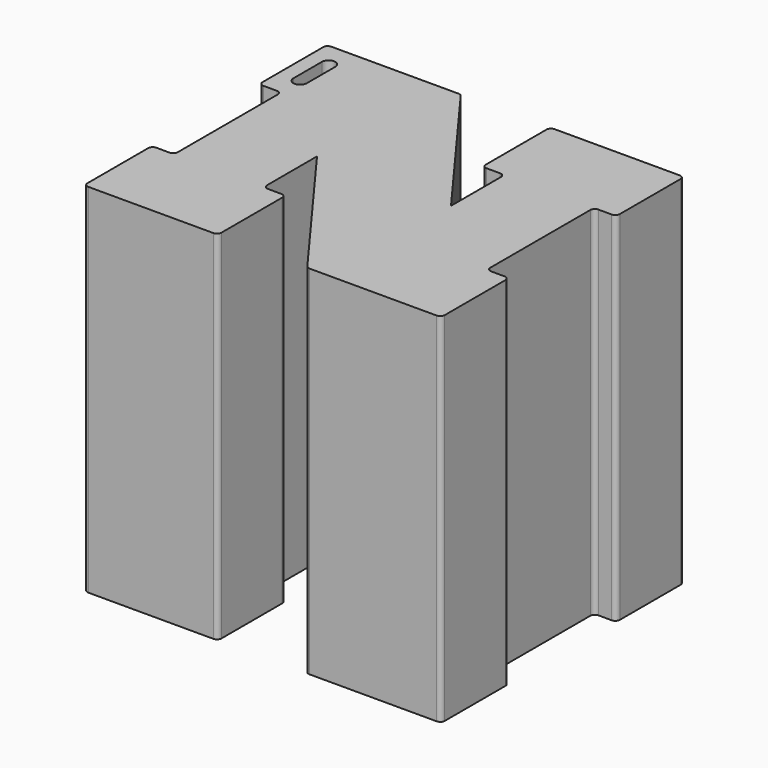
from build123d import *

# Parameters (mm, degrees)
F1_DEPTH = 20
F3_DEPTH = 25
F4_R     = 0.25


with BuildPart() as f1:
    # F0 (on Top) → F1 (new body)
    with BuildSketch(Plane.XY):
        Polygon((-10, 8.5), (-10, 3.75), (-8.75, 3.75), (-8.75, -3.75), (-10, -3.75), (-10, -8.5), (-2.5, -8.5), (-2.5, -3.75), (-3.75, -3.75), (-3.75, 0), (2.5, -8.5), (10, -8.5), (10, -3.75), (8.75, -3.75), (8.75, 3.75), (10, 3.75), (10, 8.5), (2.5, 8.5), (2.5, 3.75), (3.75, 3.75), (3.75, 0), (-2.5, 8.5), align=None)
    extrude(amount=F1_DEPTH)

    # F2 (on face) → F3 (cut)
    with BuildSketch(Plane.XY.offset(20)):
        with BuildLine():
            ThreePointArc((-8.422959, 7.125), (-8.797959, 7.5), (-9.172959, 7.125))
            Line((-9.172959, 7.125), (-9.172959, 5.125))
            ThreePointArc((-9.172959, 5.125), (-8.797959, 4.75), (-8.422959, 5.125))
            Line((-8.422959, 5.125), (-8.422959, 7.125))
        make_face()
    extrude(amount=-F3_DEPTH, mode=Mode.SUBTRACT)

    # F4
    f4_edges = [f1.edges().sort_by_distance(p)[0] for p in [
        (-10, 8.5, 10),
        (2.5, 8.5, 10),
        (-2.5, 8.5, 10),
        (2.5, 3.75, 10),
        (10, 3.75, 10),
        (10, 8.5, 10),
        (10, -3.75, 10),
        (10, -8.5, 10),
        (2.5, -8.5, 10),
        (-2.5, -3.75, 10),
        (-2.5, -8.5, 10),
        (-10, -8.5, 10),
        (-10, -3.75, 10),
        (-8.75, -3.75, 10),
        (-3.75, -3.75, 10),
        (-8.75, 3.75, 10),
        (-10, 3.75, 10),
        (3.75, 3.75, 10),
        (8.75, 3.75, 10),
        (8.75, -3.75, 10),
    ]]
    fillet(f4_edges, radius=F4_R)


solid = f1.part
